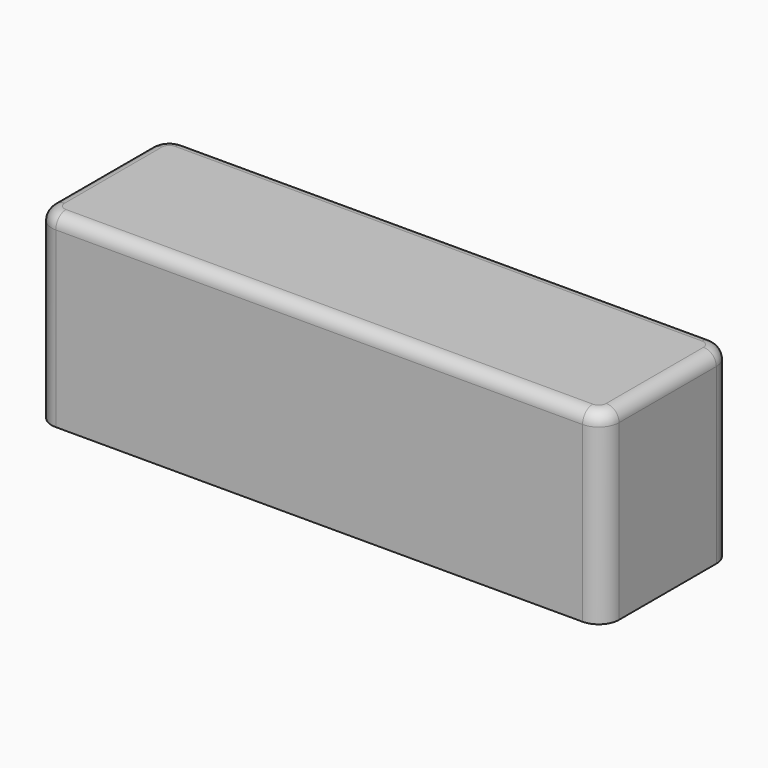
from build123d import *

# Parameters (mm, degrees)
F0_W     = 177.8
F0_H     = 50.8
F1_DEPTH = 58.42
F2_R     = 6.35
F3_R     = 6.35
F4_DEPTH = 3.175
F6_R     = 4


with BuildPart() as f1:
    # F0 (on Top) → F1 (new body)
    with BuildSketch(Plane.XY):
        Rectangle(F0_W, F0_H)
    extrude(amount=F1_DEPTH)

    # F2
    f2_edges = [f1.edges().sort_by_distance(p)[0] for p in [
        (-88.9, 25.4, 29.21),
        (88.9, 25.4, 29.21),
        (88.9, -25.4, 29.21),
        (-88.9, -25.4, 29.21),
    ]]
    fillet(f2_edges, radius=F2_R)

    # F3 (on face) → F4 (cut)
    with BuildSketch(Plane(origin=(0, 0, 0), x_dir=(1, 0, 0), z_dir=(0, 0, -1))):
        with Locations((79.375, 16.764)):
            Circle(F3_R)
        with Locations((79.375, -16.764)):
            Circle(F3_R)
        with Locations((-79.375, 16.764)):
            Circle(F3_R)
        with Locations((-79.375, -16.764)):
            Circle(F3_R)
    extrude(amount=-F4_DEPTH, mode=Mode.SUBTRACT)

    # F6
    f6_edges = [f1.edges().sort_by_distance(p)[0] for p in [
        (87.040128, 23.540128, 58.42),
        (88.9, 0, 58.42),
        (87.040128, -23.540128, 58.42),
        (0, -25.4, 58.42),
        (0, 25.4, 58.42),
        (-88.9, 0, 58.42),
        (-87.040128, 23.540128, 58.42),
        (-87.040128, -23.540128, 58.42),
    ]]
    fillet(f6_edges, radius=F6_R)


solid = f1.part
